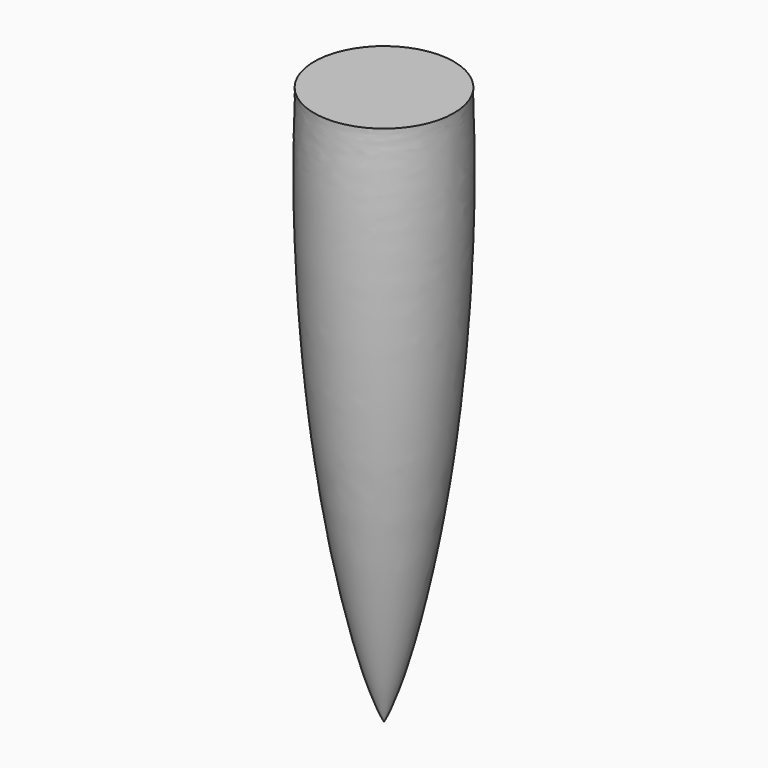
from build123d import *


with BuildPart() as f1:
    # F0 (on Front) → F1 (revolve)
    with BuildSketch(Plane.XZ):
        with BuildLine():
            Line((0, 76.2), (0, 0))
            add(Edge.make_bspline(
                [(0, 0), (2.5786140352, 4.8537277635), (8.8783180103, 32.283016187), (9.9475691288, 66.4902643733), (9.4623379142, 74.753640377), (9.525, 76.2)],
                knots=[0, 0, 0, 0, 0.3896261833, 0.8065057743, 1, 1, 1, 1], degree=3))
            Line((9.525, 76.2), (0, 76.2))
        make_face()
    revolve(axis=Axis((0, 0, 38.1), (0, 0, -1)))


solid = f1.part
